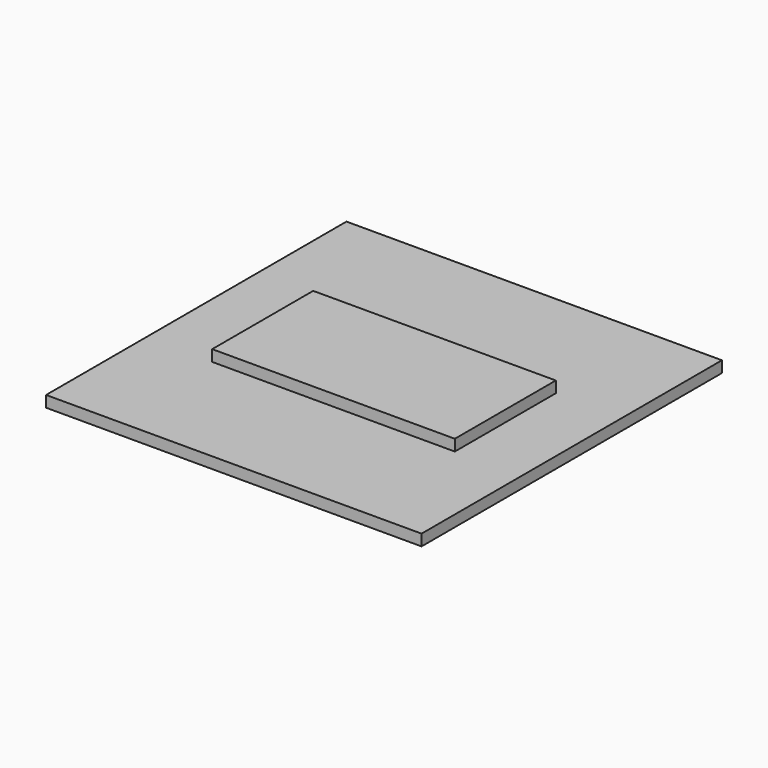
from build123d import *

# Parameters (mm, degrees)
F0_W     = 400
F0_H     = 400
F0_W_2   = 200
F0_H_2   = 80
F1_DEPTH = 12
F2_W     = 258.4615647793
F2_H     = 134.4570070505
F2_W_2   = 200
F2_H_2   = 80
F3_DEPTH = 12


with BuildPart() as f1:
    # F0 (on Top) → F1 (new body)
    with BuildSketch(Plane.XY):
        Rectangle(F0_W, F0_H)
        Rectangle(F0_W_2, F0_H_2, mode=Mode.SUBTRACT)
    extrude(amount=F1_DEPTH)


with BuildPart() as f3:
    # F2 (on face) → F3 (new body)
    with BuildSketch(Plane.XY.offset(12)):
        Rectangle(F2_W, F2_H)
        Rectangle(F2_W_2, F2_H_2, mode=Mode.SUBTRACT)
        Rectangle(F2_W_2, F2_H_2)
    extrude(amount=F3_DEPTH)


solid = Compound([f1.part, f3.part])
